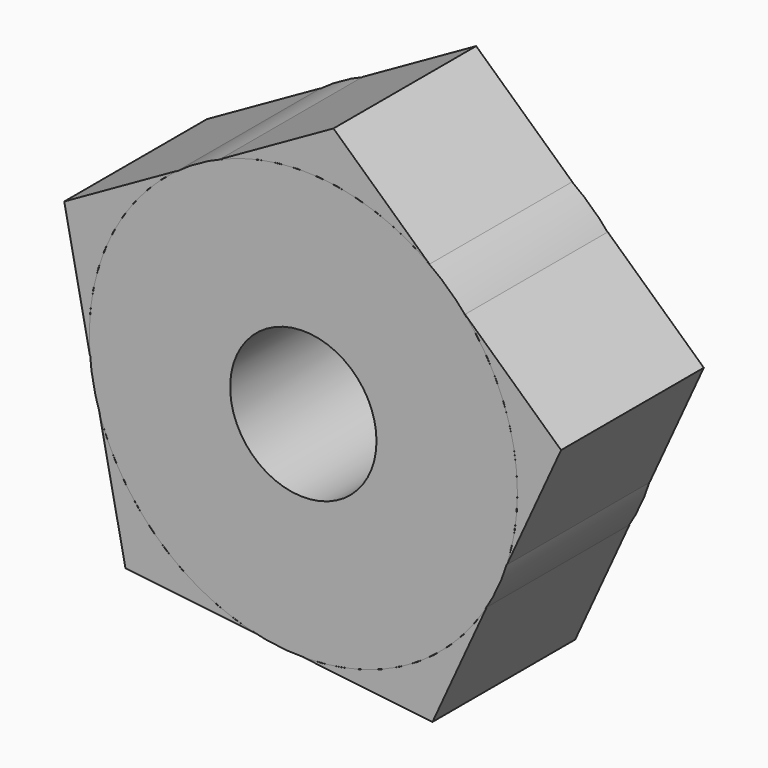
from build123d import *

# Parameters (mm, degrees)
F0_R     = 30
F1_DEPTH = 25
F2_R     = 10.25397
F3_DEPTH = 25.001
F5_DEPTH = 25


with BuildPart() as f1:
    # F0 (on Front) → F1 (new body)
    with BuildSketch(Plane.XZ):
        Circle(F0_R)
    extrude(amount=F1_DEPTH)

    # F2 (on face) → F3 (cut, through all)
    with BuildSketch(Plane.XZ.offset(25)):
        Circle(F2_R)
    extrude(amount=-F3_DEPTH, mode=Mode.SUBTRACT)


with BuildPart() as f5:
    # F4 (on face) → F5 (new body)
    with BuildSketch(Plane.XZ.offset(25)):
        with BuildLine():
            Line((-33.507877, 15.324773), (-29.887897, -2.591058))
            ThreePointArc((-29.887897, -2.591058), (-27.282114, 12.47743), (-17.587544, 24.303874))
            Line((-17.587544, 24.303874), (-33.507877, 15.324773))
        make_face()
        with BuildLine():
            Line((4.220222, 36.6035), (-11.700111, 27.624399))
            ThreePointArc((-11.700111, 27.624399), (3.436104, 29.80257), (17.679508, 24.237059))
            Line((17.679508, 24.237059), (4.220222, 36.6035))
        make_face()
        with BuildLine():
            ThreePointArc((30, 0), (29.626191, -4.7211), (28.514081, -9.324548))
            Line((28.514081, -9.324548), (36.116117, 7.297434))
            Line((36.116117, 7.297434), (22.656831, 19.663876))
            ThreePointArc((22.656831, 19.663876), (28.104314, 10.495119), (30, 0))
        make_face()
        with BuildLine():
            ThreePointArc((25.702803, -15.471455), (14.737644, -26.130477), (-0.056837, -29.999946))
            Line((-0.056837, -29.999946), (18.100766, -32.093437))
            Line((18.100766, -32.093437), (25.702803, -15.471455))
        make_face()
        with BuildLine():
            Line((-28.549208, -9.216438), (-24.929228, -27.132269))
            Line((-24.929228, -27.132269), (-6.771625, -29.225761))
            ThreePointArc((-6.771625, -29.225761), (-20.297378, -22.091094), (-28.549208, -9.216438))
        make_face()
    extrude(amount=-F5_DEPTH)


solid = Compound([f1.part, f5.part])
